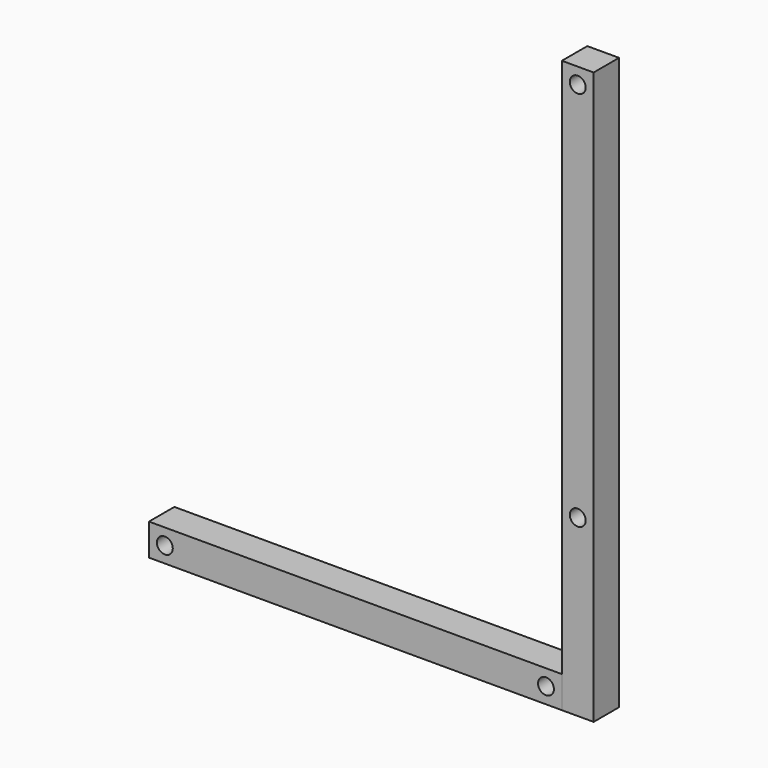
from build123d import *

# Parameters (mm, degrees)
F0_W     = 25.4
F0_H     = 457.2
F0_R     = 6.35
F1_DEPTH = 25.4
F2_W     = 330.2
F2_H     = 25.4
F2_R     = 6.35
F3_DEPTH = 25.4


with BuildPart() as f1:
    # F0 (on Front) → F1 (new body)
    with BuildSketch(Plane.XZ):
        with Locations((12.7, 228.6)):
            Rectangle(F0_W, F0_H)
        with Locations((12.7, 139.7)):
            Circle(F0_R, mode=Mode.SUBTRACT)
        with Locations((12.7, 444.5)):
            Circle(F0_R, mode=Mode.SUBTRACT)
    extrude(amount=F1_DEPTH)


with BuildPart() as f3:
    # F2 (on Front) → F3 (new body)
    with BuildSketch(Plane.XZ):
        with Locations((-165.1, 12.7)):
            Rectangle(F2_W, F2_H)
        with Locations((-317.5, 12.7)):
            Circle(F2_R, mode=Mode.SUBTRACT)
        with Locations((-12.7, 12.7)):
            Circle(F2_R, mode=Mode.SUBTRACT)
    extrude(amount=F3_DEPTH)


solid = Compound([f1.part, f3.part])
